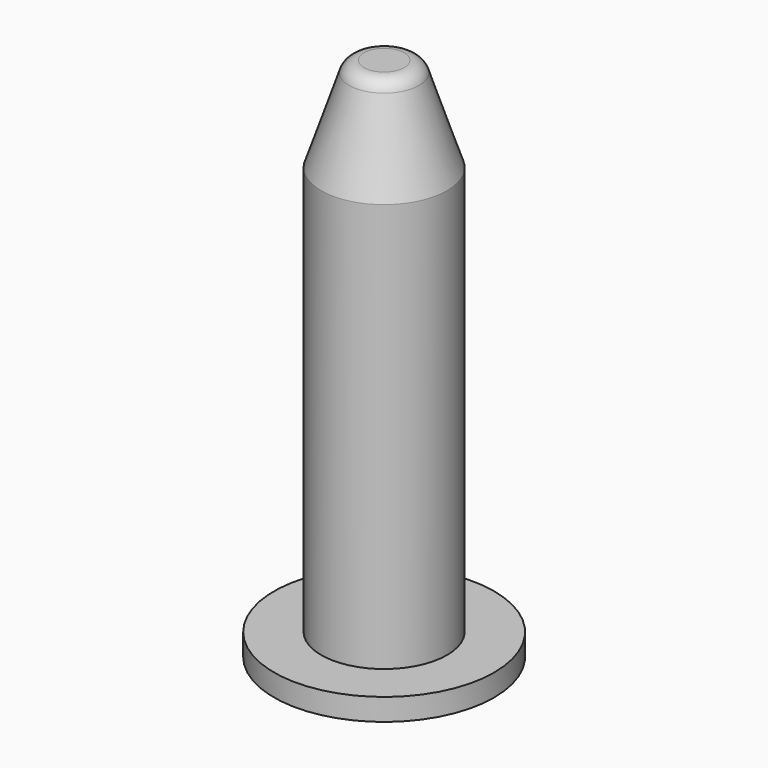
from build123d import *

# Parameters (mm, degrees)
F2_R     = 3.5
F2_R_2   = 2
F3_DEPTH = 0.7
F4_R     = 0.5


with BuildPart() as f1:
    # F0 (on Front) → F1 (revolve)
    with BuildSketch(Plane.XZ):
        Polygon((0, 16), (0, 3), (1, 3), (1, 0), (2, 0), (2, 13), (1, 16), align=None)
    revolve(axis=Axis((0, 0, 8), (0, 0, 1)))

    # F4
    f4_edges = [f1.edges().sort_by_distance(p)[0] for p in [
        (-1, 0, 16),
    ]]
    fillet(f4_edges, radius=F4_R)


with BuildPart() as f3:
    # F2 (on face) → F3 (new body)
    with BuildSketch(Plane(origin=(0, 0, 0), x_dir=(1, 0, 0), z_dir=(0, 0, -1))):
        Circle(F2_R)
        Circle(F2_R_2, mode=Mode.SUBTRACT)
    extrude(amount=F3_DEPTH)


solid = Compound([f1.part, f3.part])
